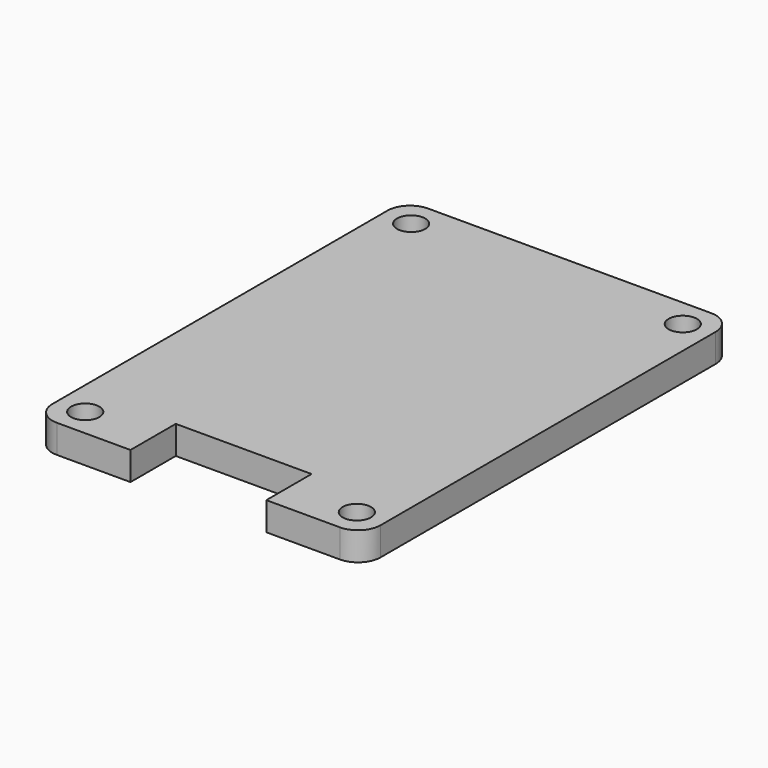
from build123d import *

# Parameters (mm, degrees)
F0_R     = 1.25
F1_DEPTH = 2.5
F2_R     = 2


with BuildPart() as f1:
    # F0 (on Top) → F1 (new body)
    with BuildSketch(Plane.XY):
        Polygon((8.5, 15), (8.5, -16), (5, -16), (5, -21), (13.5, -21), (13.5, 20), (-15.5, 20), (-15.5, -21), (-7, -21), (-7, -16), (-10.5, -16), (-10.5, 15), align=None)
        with Locations((-13, -18.5)):
            Circle(F0_R, mode=Mode.SUBTRACT)
        with Locations((11, -18.5)):
            Circle(F0_R, mode=Mode.SUBTRACT)
        with Locations((-13, 17.5)):
            Circle(F0_R, mode=Mode.SUBTRACT)
        with Locations((11, 17.5)):
            Circle(F0_R, mode=Mode.SUBTRACT)
        Polygon((5, -16), (8.5, -16), (8.5, 15), (-10.5, 15), (-10.5, -16), (-7, -16), align=None)
    extrude(amount=F1_DEPTH)

    # F2
    f2_edges = [f1.edges().sort_by_distance(p)[0] for p in [
        (-15.5, 20, 1.25),
        (13.5, 20, 1.25),
        (13.5, -21, 1.25),
        (-15.5, -21, 1.25),
    ]]
    fillet(f2_edges, radius=F2_R)


solid = f1.part
